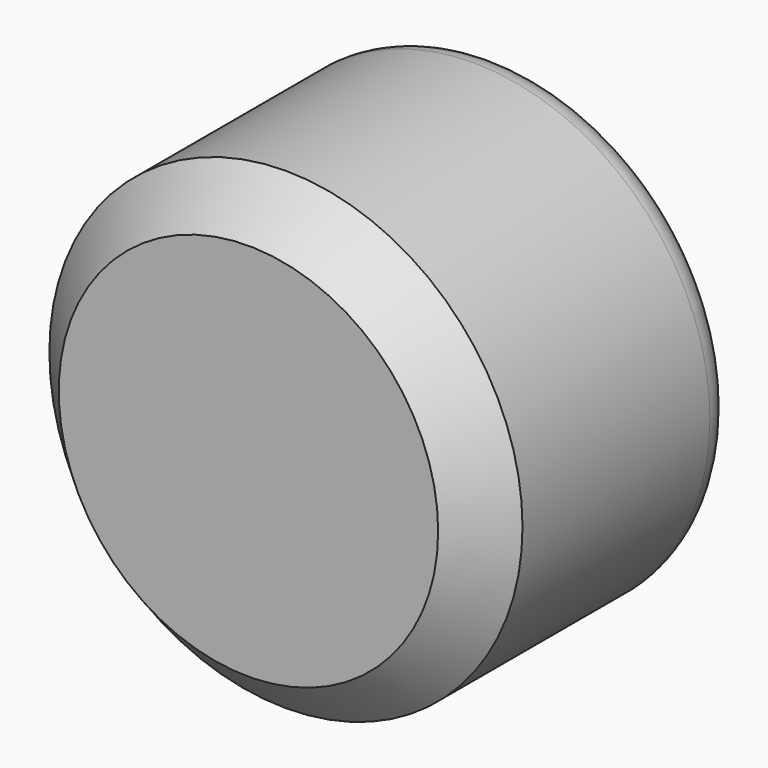
from build123d import *

# Parameters (mm, degrees)
F1_R     = 75.730372
F2_DEPTH = 100
F3_R     = 10
F4_SIZE  = 15


with BuildPart() as f2:
    # F1 (on face) → F2 (new body)
    with BuildSketch(Plane.XZ):
        Circle(F1_R)
    extrude(amount=F2_DEPTH)

    # F3
    f3_edges = [f2.edges().sort_by_distance(p)[0] for p in [
        (-75.730372, 0, 0),
    ]]
    fillet(f3_edges, radius=F3_R)

    # F4
    f4_edges = [f2.edges().sort_by_distance(p)[0] for p in [
        (-75.730372, -100, 0),
    ]]
    chamfer(f4_edges, length=F4_SIZE)


solid = f2.part
